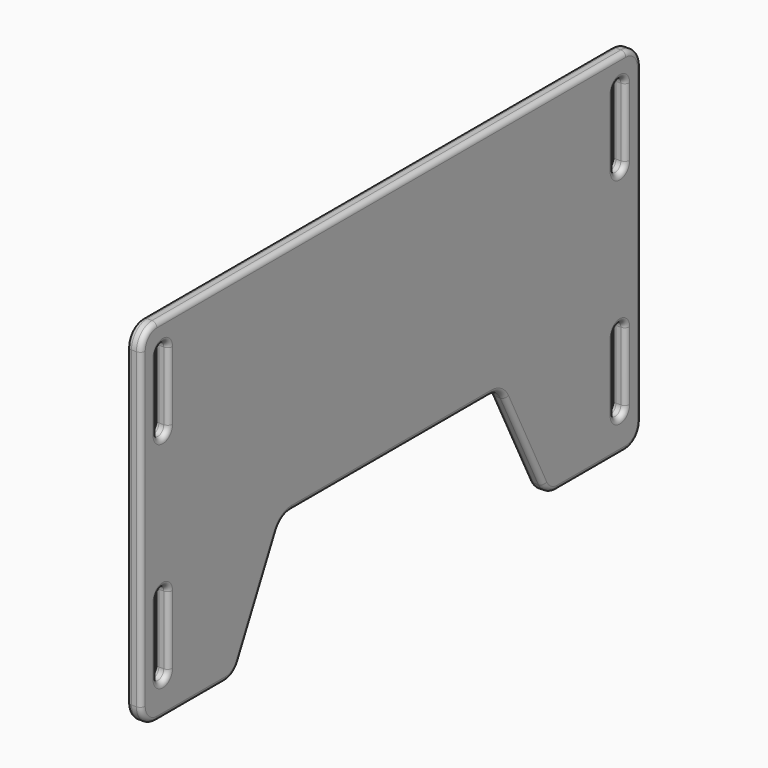
from build123d import *

# Parameters (mm, degrees)
F1_DEPTH = 19.05
F2_R     = 25.4
F3_R     = 6.35


with BuildPart() as f1:
    # F0 (on Right) → F1 (new body)
    with BuildSketch(Plane.YZ):
        Polygon((406.4, 457.2), (-406.4, 457.2), (-406.4, 0), (-254, 0), (-177.8, 152.4), (177.8, 152.4), (254, 0), (406.4, 0), align=None)
        with BuildLine():
            Line((-381, 50.8), (-381, 139.7))
            ThreePointArc((-381, 139.7), (-371.475, 149.225), (-361.95, 139.7))
            Line((-361.95, 139.7), (-361.95, 50.8))
            ThreePointArc((-361.95, 50.8), (-371.475, 41.275), (-381, 50.8))
        make_face(mode=Mode.SUBTRACT)
        with BuildLine():
            ThreePointArc((361.95, 139.7), (371.475, 149.225), (381, 139.7))
            Line((381, 139.7), (381, 50.8))
            ThreePointArc((381, 50.8), (371.475, 41.275), (361.95, 50.8))
            Line((361.95, 50.8), (361.95, 139.7))
        make_face(mode=Mode.SUBTRACT)
        with BuildLine():
            Line((-381, 330.2), (-381, 419.1))
            ThreePointArc((-381, 419.1), (-371.475, 428.625), (-361.95, 419.1))
            Line((-361.95, 419.1), (-361.95, 330.2))
            ThreePointArc((-361.95, 330.2), (-371.475, 320.675), (-381, 330.2))
        make_face(mode=Mode.SUBTRACT)
        with BuildLine():
            Line((361.95, 330.2), (361.95, 419.1))
            ThreePointArc((361.95, 419.1), (371.475, 428.625), (381, 419.1))
            Line((381, 419.1), (381, 330.2))
            ThreePointArc((381, 330.2), (371.475, 320.675), (361.95, 330.2))
        make_face(mode=Mode.SUBTRACT)
    extrude(amount=F1_DEPTH)

    # F2
    f2_edges = [f1.edges().sort_by_distance(p)[0] for p in [
        (9.525, -406.4, 457.2),
        (9.525, 406.4, 457.2),
        (9.525, -406.4, 0),
        (9.525, 406.4, 0),
        (9.525, -177.8, 152.4),
        (9.525, -254, 0),
        (9.525, 254, 0),
        (9.525, 177.8, 152.4),
    ]]
    fillet(f2_edges, radius=F2_R)

    # F3
    f3_edges = [f1.edges().sort_by_distance(p)[0] for p in [
        (19.05, 0, 457.2),
        (0, 0, 457.2),
        (19.05, -361.95, 374.65),
        (19.05, -361.95, 95.25),
        (19.05, 381, 95.25),
        (19.05, 381, 374.65),
        (0, 361.95, 374.65),
        (0, -381, 374.65),
        (0, -381, 95.25),
        (0, 361.95, 95.25),
    ]]
    fillet(f3_edges, radius=F3_R)


solid = f1.part
